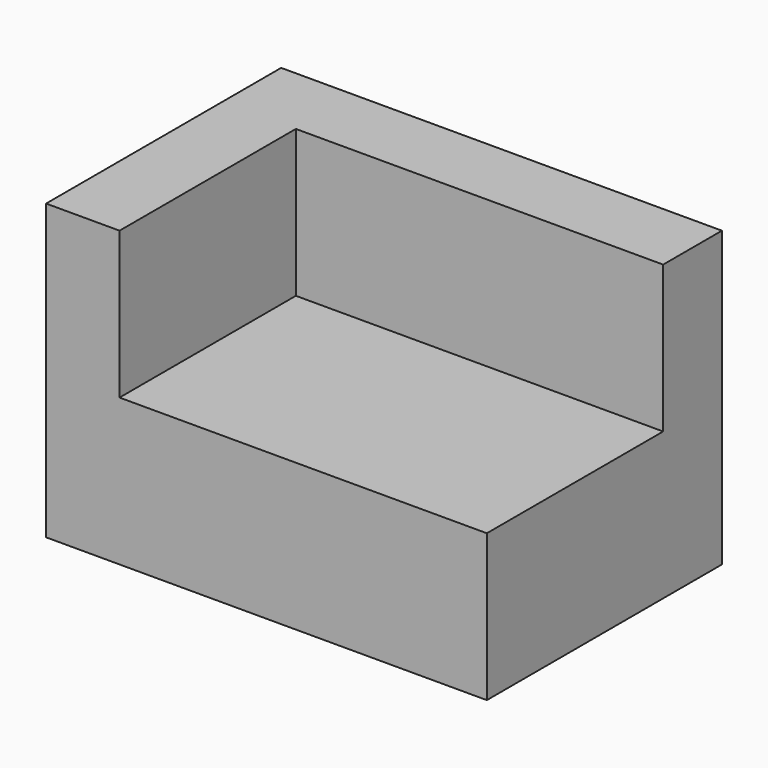
from build123d import *

# Parameters (mm, degrees)
F0_W      = 50
F0_H      = 40
F1_DEPTH  = 40
F2_W      = 50
F2_H      = 40
F3_DEPTH  = 20
F4_W      = 10
F4_H      = 40
F5_DEPTH  = 20
F6_W      = 50
F6_H      = 10
F7_DEPTH  = 10
F8_W      = 10
F8_H      = 40
F9_DEPTH  = 20
F10_W     = 50
F10_H     = 10
F11_DEPTH = 10


with BuildPart() as f1:
    # F0 (on Front) → F1 (new body)
    with BuildSketch(Plane.XZ):
        with Locations((25, 20)):
            Rectangle(F0_W, F0_H)
    extrude(amount=F1_DEPTH)

    # F2 (on face) → F3 (cut)
    with BuildSketch(Plane.XY.offset(40)):
        with Locations((25, -20)):
            Rectangle(F2_W, F2_H)
    extrude(amount=-F3_DEPTH, mode=Mode.SUBTRACT)

    # F4 (on face) → F5 (join)
    with BuildSketch(Plane.XY.offset(20)):
        with Locations((5, -20)):
            Rectangle(F4_W, F4_H)
    extrude(amount=F5_DEPTH)

    # F6 (on face) → F7 (join)
    with BuildSketch(Plane.XY.offset(40)):
        with Locations((35, -5)):
            Rectangle(F6_W, F6_H)
    extrude(amount=-F7_DEPTH)

    # F8 (on face) → F9 (join)
    with BuildSketch(Plane.XY.offset(20)):
        with Locations((55, -20)):
            Rectangle(F8_W, F8_H)
    extrude(amount=-F9_DEPTH)

    # F10 (on face) → F11 (join)
    with BuildSketch(Plane.XZ.offset(10)):
        with Locations((35, 25)):
            Rectangle(F10_W, F10_H)
    extrude(amount=-F11_DEPTH)


solid = f1.part
